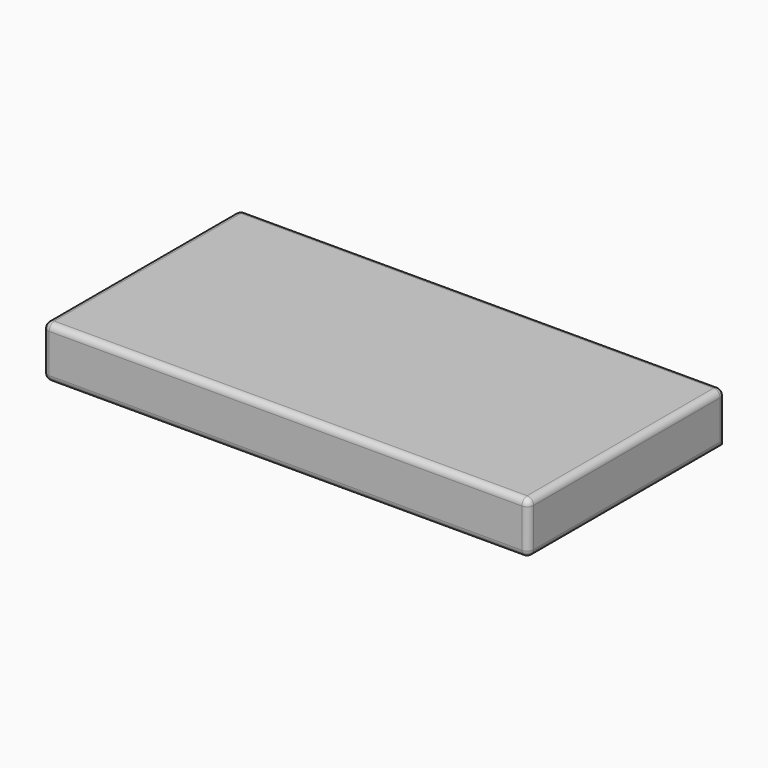
from build123d import *

# Parameters (mm, degrees)
F0_W     = 1905
F0_H     = 965.2
F1_DEPTH = 203.2
F2_R     = 25.4


with BuildPart() as f1:
    # F0 (on Top) → F1 (new body)
    with BuildSketch(Plane.XY):
        with Locations((952.5, -482.6)):
            Rectangle(F0_W, F0_H)
    extrude(amount=F1_DEPTH)

    # F2
    f2_edges = [f1.edges().sort_by_distance(p)[0] for p in [
        (952.5, 0, 203.2),
        (0, -482.6, 203.2),
        (952.5, -965.2, 203.2),
        (1905, -482.6, 203.2),
        (1905, -965.2, 101.6),
        (1905, 0, 101.6),
        (1905, -482.6, 0),
        (952.5, -965.2, 0),
        (0, 0, 101.6),
        (0, -965.2, 101.6),
        (0, -482.6, 0),
    ]]
    fillet(f2_edges, radius=F2_R)


solid = f1.part
